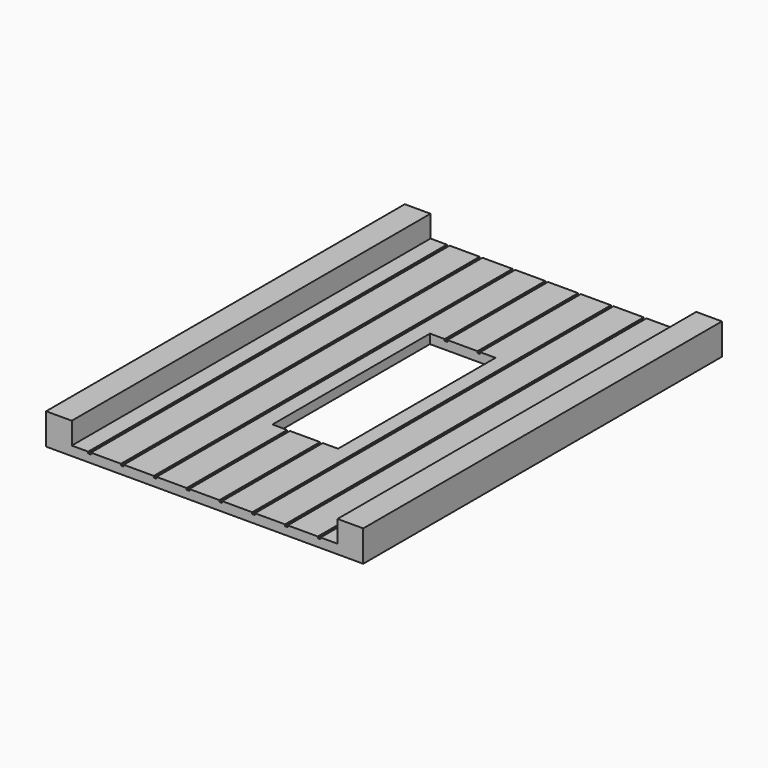
from build123d import *

# Parameters (mm, degrees)
F0_W     = 14.732
F0_H     = 20.828
F1_DEPTH = 0.4318
F2_W     = 0.127
F2_H     = 20.828
F3_DEPTH = 0.0762
F4_W     = 3.048
F4_H     = 9.144
F5_DEPTH = 25.4
F6_W     = 1.1938
F6_H     = 20.828
F7_DEPTH = 1.016


with BuildPart() as f1:
    # F0 (on Top) → F1 (new body)
    with BuildSketch(Plane.XY):
        Rectangle(F0_W, F0_H)
    extrude(amount=F1_DEPTH)

    # F2 (on face) → F3 (cut)
    with BuildSketch(Plane.XY.offset(0.4318)):
        with Locations((-5.3467, 0)):
            Rectangle(F2_W, F2_H)
        with Locations((-3.8227, 0)):
            Rectangle(F2_W, F2_H)
        with Locations((-2.2987, 0)):
            Rectangle(F2_W, F2_H)
        with Locations((-0.7747, 0)):
            Rectangle(F2_W, F2_H)
        with Locations((0.7493, 0)):
            Rectangle(F2_W, F2_H)
        with Locations((2.2733, 0)):
            Rectangle(F2_W, F2_H)
        with Locations((3.7973, 0)):
            Rectangle(F2_W, F2_H)
        with Locations((5.3213, 0)):
            Rectangle(F2_W, F2_H)
    extrude(amount=-F3_DEPTH, mode=Mode.SUBTRACT)

    # F4 (on face) → F5 (cut)
    with BuildSketch(Plane.XY.offset(0.4318)):
        Rectangle(F4_W, F4_H)
    extrude(amount=-F5_DEPTH, mode=Mode.SUBTRACT)

    # F6 (on face) → F7 (join)
    with BuildSketch(Plane.XY.offset(0.4318)):
        with Locations((-6.7691, 0)):
            Rectangle(F6_W, F6_H)
        with Locations((6.7691, 0)):
            Rectangle(F6_W, F6_H)
    extrude(amount=F7_DEPTH)


solid = f1.part
